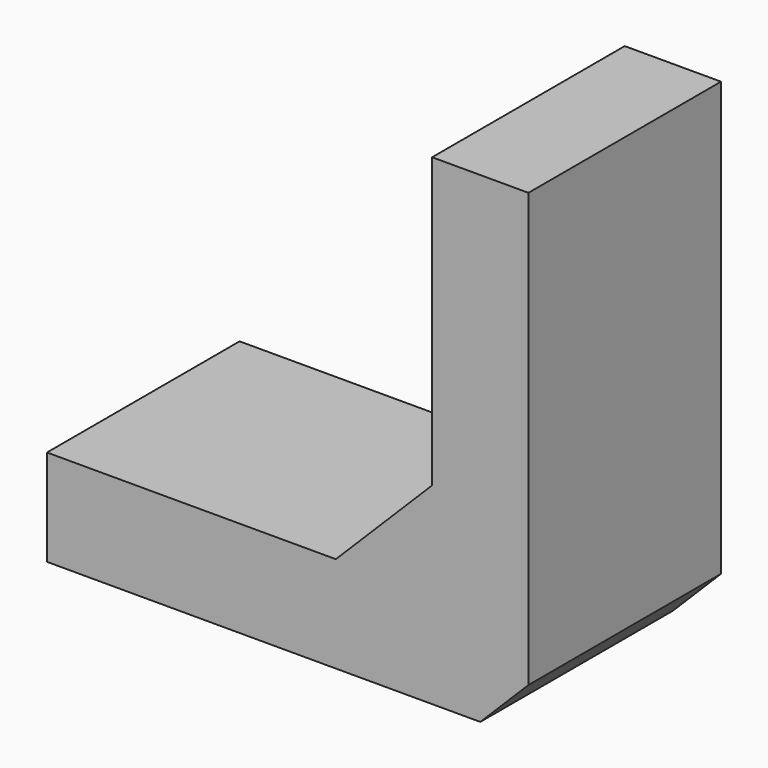
from build123d import *

# Parameters (mm, degrees)
BOX017_W        = 10
BOX017_H        = 5
BOX017_DEPTH    = 10
CHAMFER006_SIZE = 2
BOX016_W        = 10
BOX016_H        = 5
BOX016_DEPTH    = 10
CHAMFER007_SIZE = 1


with BuildPart() as chamfer014:
    # Box017 → Box017 (new body)
    with BuildSketch(Plane(origin=(-2, 0, 2), x_dir=(1, 0, 0), z_dir=(0, 0, 1))):
        with Locations((5, 2.5)):
            Rectangle(BOX017_W, BOX017_H)
    extrude(amount=BOX017_DEPTH)

    # Chamfer006
    chamfer006_edges = [chamfer014.edges().sort_by_distance(p)[0] for p in [
        (8, 2.5, 2),
    ]]
    chamfer(chamfer006_edges, length=CHAMFER006_SIZE)


with BuildPart() as obj1:
    # Box016 → Box016 (new body)
    with BuildSketch(Plane.XY):
        with Locations((5, 2.5)):
            Rectangle(BOX016_W, BOX016_H)
    extrude(amount=BOX016_DEPTH)

    # Cut001017: cut Chamfer014
    add(chamfer014.part, mode=Mode.SUBTRACT)

    # Chamfer007
    chamfer007_edges = [obj1.edges().sort_by_distance(p)[0] for p in [
        (10, 2.5, 0),
    ]]
    chamfer(chamfer007_edges, length=CHAMFER007_SIZE)


with BuildPart() as obj1_1:
    # Chamfer007 placement: moved
    add(obj1.part.moved(Location((-23, 0, 0))))


solid = obj1_1.part
